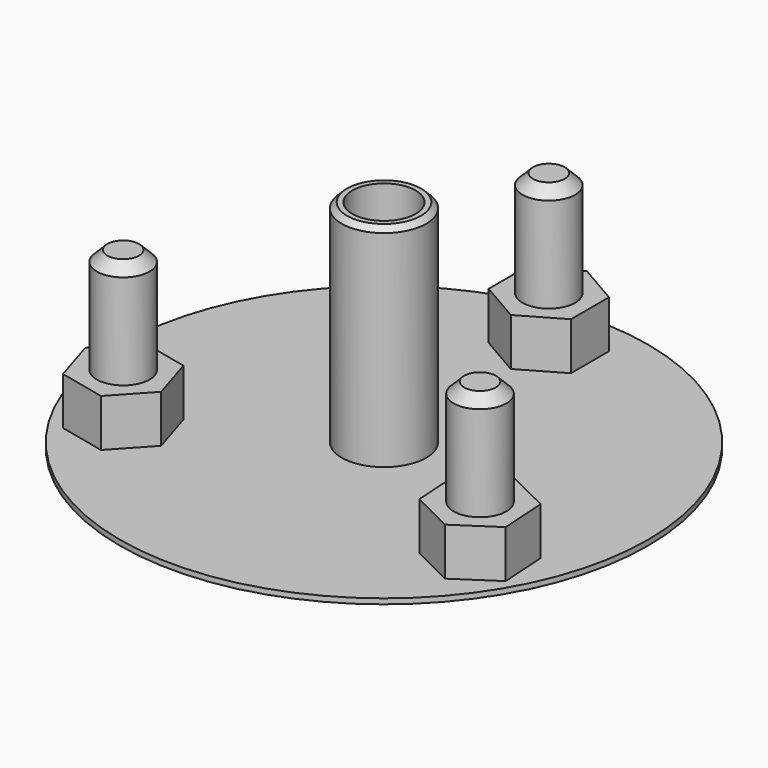
from build123d import *

# Parameters (mm, degrees)
SKETCH001_R     = 25
PAD_DEPTH       = 0.5
PAD001_DEPTH    = 5
SKETCH002_R     = 2.5
PAD002_DEPTH    = 10
SKETCH003_R     = 4
SKETCH003_R_2   = 3
PAD003_DEPTH    = 20
SKETCH004_R     = 3
POCKET_DEPTH    = 20.501
CHAMFER_SIZE    = 1
CHAMFER001_SIZE = 0.5


with BuildPart() as part:
    # Sketch001 → Pad (new body)
    with BuildSketch(Plane.XY):
        Circle(SKETCH001_R)
    extrude(amount=PAD_DEPTH)

    # Sketch → Pad001 (join)
    with BuildSketch(Plane.XY):
        Polygon((0, 24), (-3.897114, 21.75), (-3.897114, 17.25), (0, 15), (3.897114, 17.25), (3.897114, 21.75), align=None)
        Polygon((16.606239, -5.258798), (12.857372, -7.747974), (13.138629, -12.239176), (17.168752, -14.241202), (20.917619, -11.752026), (20.636362, -7.260824), align=None)
        Polygon((-18.222418, -5.452561), (-21.276648, -8.757357), (-19.941725, -13.054796), (-15.552573, -14.047439), (-12.498343, -10.742643), (-13.833265, -6.445204), align=None)
    extrude(amount=PAD001_DEPTH)

    # Sketch002 (on Face25 of Pad001) → Pad002 (join)
    with BuildSketch(Plane.XY.offset(5)):
        with Locations((0, 19.5)):
            Circle(SKETCH002_R)
        with Locations((16.887495, -9.75)):
            Circle(SKETCH002_R)
        with Locations((-16.887495, -9.75)):
            Circle(SKETCH002_R)
    extrude(amount=PAD002_DEPTH)

    # Sketch003 (on Face3 of Pad002) → Pad003 (join)
    with BuildSketch(Plane.XY.offset(0.5)):
        Circle(SKETCH003_R)
        Circle(SKETCH003_R_2, mode=Mode.SUBTRACT)
    extrude(amount=PAD003_DEPTH)

    # Sketch004 (on Face2 of Pad003) → Pocket (cut, through all)
    with BuildSketch(Plane(origin=(0, 0, 0), x_dir=(1, 0, 0), z_dir=(0, 0, -1))):
        Circle(SKETCH004_R)
    extrude(amount=-POCKET_DEPTH, mode=Mode.SUBTRACT)

    # Chamfer
    chamfer_edges = [part.edges().sort_by_distance(p)[0] for p in [
        (-19.387495, -9.75, 15),
        (-2.5, 19.5, 15),
        (14.387495, -9.75, 15),
    ]]
    chamfer(chamfer_edges, length=CHAMFER_SIZE)

    # Chamfer001
    chamfer001_edges = [part.edges().sort_by_distance(p)[0] for p in [
        (-4, 0, 20.5),
    ]]
    chamfer(chamfer001_edges, length=CHAMFER001_SIZE)


solid = part.part
